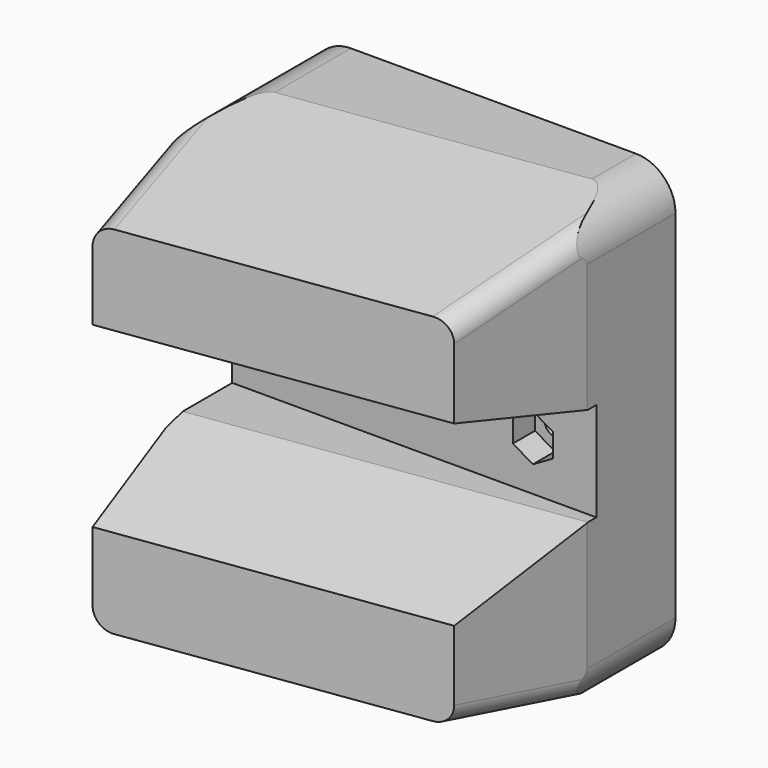
from build123d import *

# Parameters (mm, degrees)
F1_DEPTH  = 110
F3_W      = 92
F3_H      = 25
F4_DEPTH  = 80
F5_SIZE2  = 10
F5_SIZE   = 50
F6_SIZE2  = 10
F6_SIZE   = 50
F7_SIZE2  = 10
F7_SIZE   = 35
F8_SIZE2  = 10
F8_SIZE   = 35
F9_SIZE2  = 5
F9_SIZE   = 35
F10_SIZE2 = 5
F10_SIZE  = 30
F11_R     = 10
F12_R     = 5
F14_D     = 5.25
F16_DEPTH = 7


with BuildPart() as f1:
    # F0 (on Top) → F1 (new body)
    with BuildSketch(Plane.XY):
        Polygon((46, 43.0696749699), (-46, 43.0696749699), (-46, -32.9303250301), (46, -19.9303250301), align=None)
    extrude(amount=F1_DEPTH)

    # F3 (on offset) → F4 (cut)
    with BuildSketch(Plane(origin=(0, 18.0696749699, 0), x_dir=(-1, 0, 0), z_dir=(0, 1, 0))):
        with Locations((0, 55)):
            Rectangle(F3_W, F3_H)
    extrude(amount=-F4_DEPTH, mode=Mode.SUBTRACT)

    # F5
    f5_edges = [f1.edges().sort_by_distance(p)[0] for p in [
        (0, -26.430325, 110),
    ]]
    f5_side = f1.faces().sort_by_distance((-1.434053, 8.218356, 110))[0]
    chamfer(f5_edges, length=F5_SIZE, length2=F5_SIZE2, reference=f5_side)

    # F6
    f6_edges = [f1.edges().sort_by_distance(p)[0] for p in [
        (0, -26.430325, 0),
    ]]
    f6_side = f1.faces().sort_by_distance((-1.434053, 8.218356, 0))[0]
    chamfer(f6_edges, length=F6_SIZE, length2=F6_SIZE2, reference=f6_side)

    # F7
    f7_edges = [f1.edges().sort_by_distance(p)[0] for p in [
        (0, -26.430325, 67.5),
    ]]
    f7_side = f1.faces().sort_by_distance((-2.2397, -4.338565, 67.5))[0]
    chamfer(f7_edges, length=F7_SIZE, length2=F7_SIZE2, reference=f7_side)

    # F8
    f8_edges = [f1.edges().sort_by_distance(p)[0] for p in [
        (0, -26.430325, 42.5),
    ]]
    f8_side = f1.faces().sort_by_distance((-2.2397, -4.338565, 42.5))[0]
    chamfer(f8_edges, length=F8_SIZE, length2=F8_SIZE2, reference=f8_side)

    # F9
    f9_edges = [f1.edges().sort_by_distance(p)[0] for p in [
        (46, -19.930325, 21.25),
        (46, -19.930325, 88.75),
    ]]
    f9_side = f1.faces().sort_by_distance((46, 16.743522, 41.232364))[0]
    chamfer(f9_edges, length=F9_SIZE, length2=F9_SIZE2, reference=f9_side)

    # F10
    f10_edges = [f1.edges().sort_by_distance(p)[0] for p in [
        (-46, -32.930325, 88.75),
        (-46, -32.930325, 21.25),
    ]]
    f10_side = f1.faces().sort_by_distance((-46, 10.243522, 41.162988))[0]
    chamfer(f10_edges, length=F10_SIZE, length2=F10_SIZE2, reference=f10_side)

    # F11
    f11_edges = [f1.edges().sort_by_distance(p)[0] for p in [
        (-46, 30.318028, 110),
        (-46, 30.318028, 0),
        (46, 36.818028, 0),
        (46, 36.818028, 110),
    ]]
    fillet(f11_edges, radius=F11_R)

    # F12
    f12_edges = [f1.edges().sort_by_distance(p)[0] for p in [
        (-42.964823, -20.893414, 7.701231),
        (42.845838, -7.674494, 7.484682),
        (42.845838, -7.674494, 102.515318),
        (-42.964823, -20.893414, 102.298769),
    ]]
    fillet(f12_edges, radius=F12_R)

    # F14 (through all)
    with Locations(Plane(origin=(0, 43.0696749699, 0), x_dir=(-1, 0, 0), z_dir=(0, 1, 0))):
        with Locations((-30, 55), (30, 55)):
            Hole(F14_D / 2)

    # F15 (on face) → F16 (cut)
    with BuildSketch(Plane.XZ.offset(-18.0696749699)):
        Polygon((-24.9, 52.0555136271), (-24.9, 57.9444863729), (-30, 60.8889727457), (-35.1, 57.9444863729), (-35.1, 52.0555136271), (-30, 49.1110272543), align=None)
        Polygon((24.9, 57.9444863729), (24.9, 52.0555136271), (30, 49.1110272543), (35.1, 52.0555136271), (35.1, 57.9444863729), (30, 60.8889727457), align=None)
    extrude(amount=-F16_DEPTH, mode=Mode.SUBTRACT)


solid = f1.part
